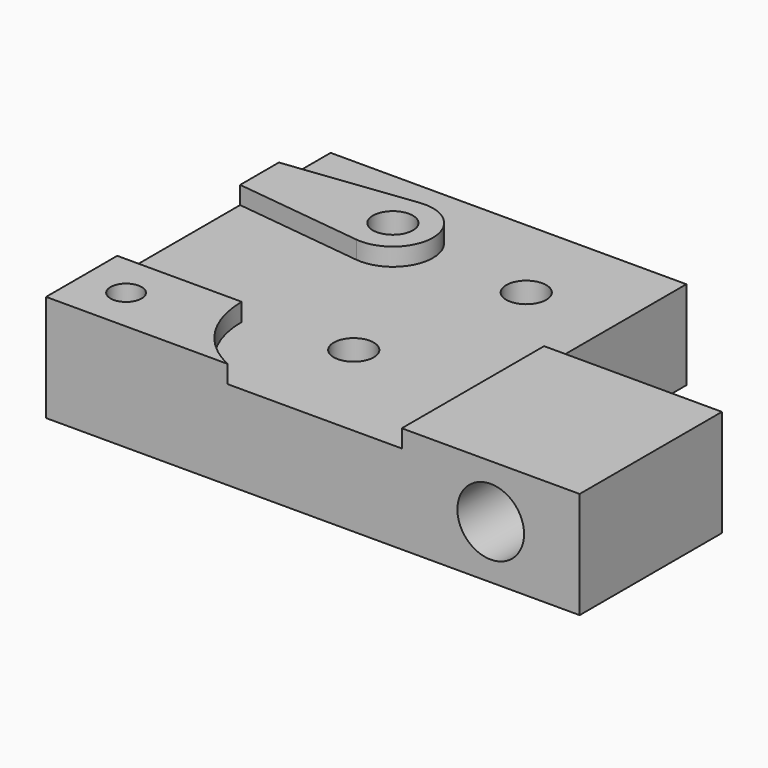
from build123d import *

# Parameters (mm, degrees)
SKETCH_R                       = 2.25
SKETCH_R_2                     = 1.75
PAD_DEPTH                      = 12
POCKET_DEPTH                   = 2
SKETCH002_R                    = 2.25
POCKET002_DEPTH                = 20.001
PART_MIRRORING_PLACEMENT_ANGLE = 180
SKETCH003_R                    = 3
POCKET003_DEPTH                = 8
SKETCH004_R                    = 3.75
POCKET004_DEPTH                = 10


with BuildPart() as pocket002:
    # Sketch → Pad (new body)
    with BuildSketch(Plane.XY):
        Polygon((0, -20), (40, -20), (40, 20), (-20, 20), (-20, 0), (0, 0), align=None)
        with Locations((15, 8)):
            Circle(SKETCH_R, mode=Mode.SUBTRACT)
        with Locations((10, -10)):
            Circle(SKETCH_R, mode=Mode.SUBTRACT)
        with Locations((35, 15)):
            Circle(SKETCH_R_2, mode=Mode.SUBTRACT)
        with Locations((25, -10)):
            Circle(SKETCH_R, mode=Mode.SUBTRACT)
    extrude(amount=PAD_DEPTH)

    # Sketch001 → Pocket (cut)
    with BuildSketch(Plane.XY.offset(12)):
        with BuildLine():
            Line((46, 10), (26, 10))
            ThreePointArc((26, 10), (22.778175, 17.778175), (15, 21))
            Line((15, 21), (0, 21))
            Line((0, 21), (0, -23))
            Line((0, -23), (46, -23))
            Line((46, -23), (46, -12))
            Line((25.538775, -14.46763), (46, -12))
            ThreePointArc((25.538775, -5.53237), (20.5, -10), (25.538775, -14.46763))
            Line((25.538775, -5.53237), (46, -8))
            Line((46, -8), (46, 10))
        make_face()
    extrude(amount=-POCKET_DEPTH, mode=Mode.SUBTRACT)

    # Sketch002 → Pocket002 (cut, through all)
    with BuildSketch(Plane.XZ):
        with Locations((-10, 6)):
            Circle(SKETCH002_R)
    extrude(amount=-POCKET002_DEPTH, mode=Mode.SUBTRACT)


with BuildPart() as pocket004:
    # Part__Mirroring: instance of Pocket002
    add(pocket002.part.mirror(Plane(origin=(0, 0, 0), x_dir=(0, 1, 0), z_dir=(0, 0, 1))))


with BuildPart() as pocket004_1:
    # Part__Mirroring placement: moved
    add(pocket004.part.rotate(Axis((0, 0, 0), (1, 0, 0)), PART_MIRRORING_PLACEMENT_ANGLE))

    # Sketch003 → Pocket003 (cut)
    with BuildSketch(Plane(origin=(0, 0, 0), x_dir=(1, 0, 0), z_dir=(0, 0, -1))):
        with Locations((35, 15)):
            Circle(SKETCH003_R)
    extrude(amount=-POCKET003_DEPTH, mode=Mode.SUBTRACT)

    # Sketch004 → Pocket004 (cut)
    with BuildSketch(Plane(origin=(0, -20, 0), x_dir=(-1, 0, 0), z_dir=(0, -1, 0))):
        with Locations((10, -6)):
            Circle(SKETCH004_R)
    extrude(amount=-POCKET004_DEPTH, mode=Mode.SUBTRACT)


with BuildPart() as part_mirroring001:
    # Part__Mirroring001: instance of Pocket004
    add(pocket004_1.part.mirror(Plane(origin=(0, 0, 0), x_dir=(0, -1, 0), z_dir=(1, 0, 0))))


solid = part_mirroring001.part
